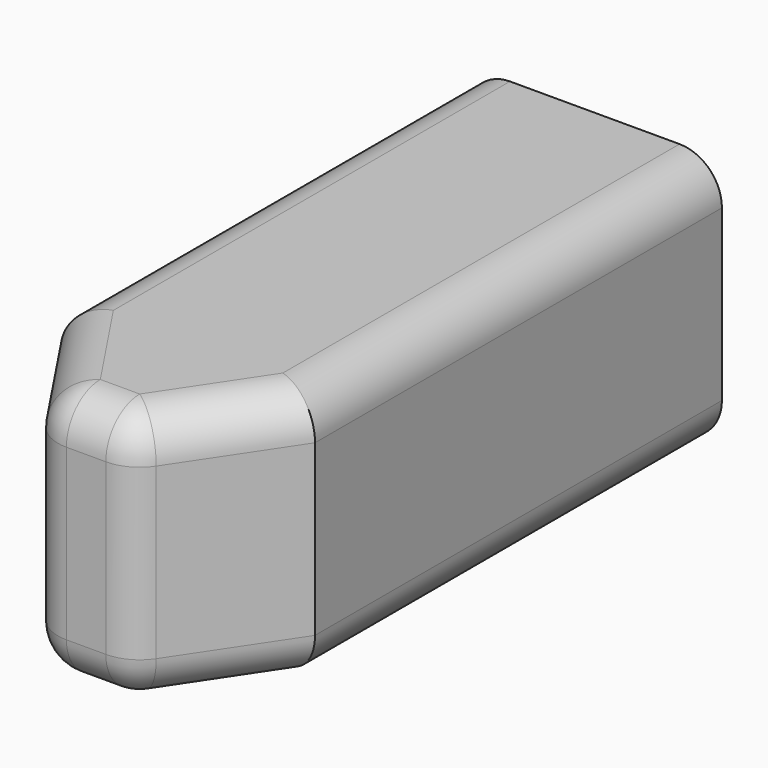
from build123d import *

# Parameters (mm, degrees)
F0_R     = 10
F1_DEPTH = 30
F2_R     = 5
F3_DEPTH = 10


with BuildPart() as f1:
    # F0 (on Top) → F1 (new body)
    with BuildSketch(Plane.XY):
        Polygon((15, 30), (-15, 30), (-15, -30), (0, -30), (15, -30), align=None)
        Circle(F0_R, mode=Mode.SUBTRACT)
        Polygon((0, -30), (-15, -30), (-5, -45), (0, -45), align=None)
        Polygon((5, -45), (15, -30), (0, -30), (0, -45), align=None)
        Circle(F0_R)
    extrude(amount=F1_DEPTH)

    # F2
    f2_edges = [f1.edges().sort_by_distance(p)[0] for p in [
        (15, 0, 0),
        (-15, 0, 0),
        (-15, 0, 30),
        (15, 0, 30),
        (-10, -37.5, 30),
        (10, -37.5, 30),
        (-5, -45, 15),
        (5, -45, 15),
        (0, -45, 0),
        (0, -45, 30),
        (10, -37.5, 0),
        (-10, -37.5, 0),
    ]]
    fillet(f2_edges, radius=F2_R)

    # F0 (on Top) → F3 (cut)
    with BuildSketch(Plane.XY):
        Circle(F0_R)
    extrude(amount=F3_DEPTH, mode=Mode.SUBTRACT)


solid = f1.part
